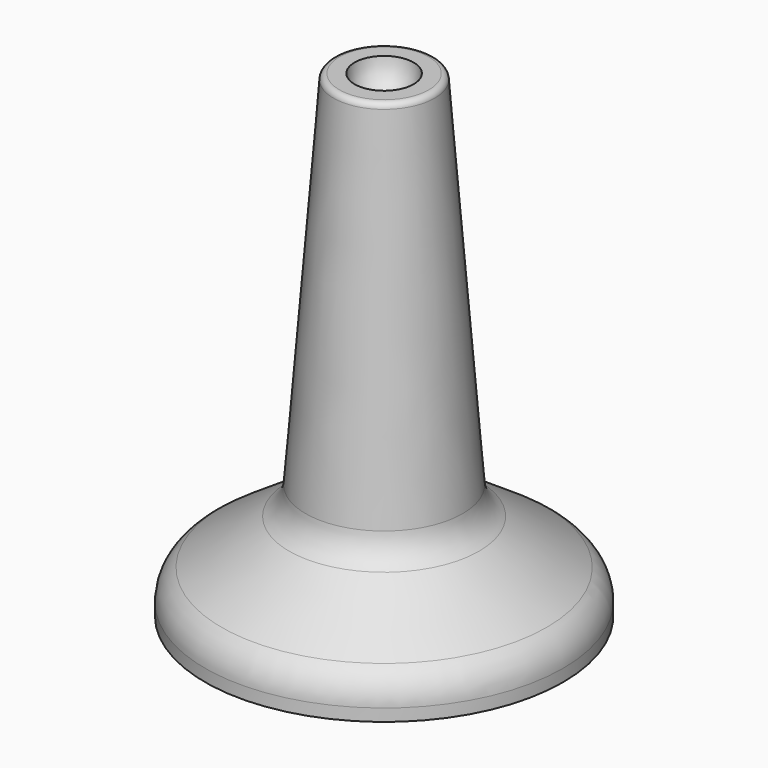
from build123d import *


with BuildPart() as f1:
    # F0 (on Front) → F1 (revolve)
    with BuildSketch(Plane.XZ):
        with BuildLine():
            ThreePointArc((2.54, 19.304011), (1.796051, 17.50796), (0, 16.764011))
            Line((0, 16.764011), (0, -21.844))
            Line((0, -21.844), (15.413954, -21.844))
            Line((15.413954, -21.844), (15.413954, -20.789277))
            ThreePointArc((15.413954, -20.789277), (15.038114, -19.290836), (13.999575, -18.14715))
            Line((13.999575, -18.14715), (8.176006, -14.266528))
            ThreePointArc((8.176006, -14.266528), (7.198453, -13.231581), (6.771414, -11.873508))
            Line((6.771414, -11.873508), (4.354534, 18.835868))
            ThreePointArc((4.354534, 18.835868), (4.192931, 19.169047), (3.8481, 19.304011))
            Line((3.8481, 19.304011), (2.54, 19.304011))
        make_face()
    revolve(axis=Axis((0, 0, 7.808575), (0, 0, 1)))


solid = f1.part
